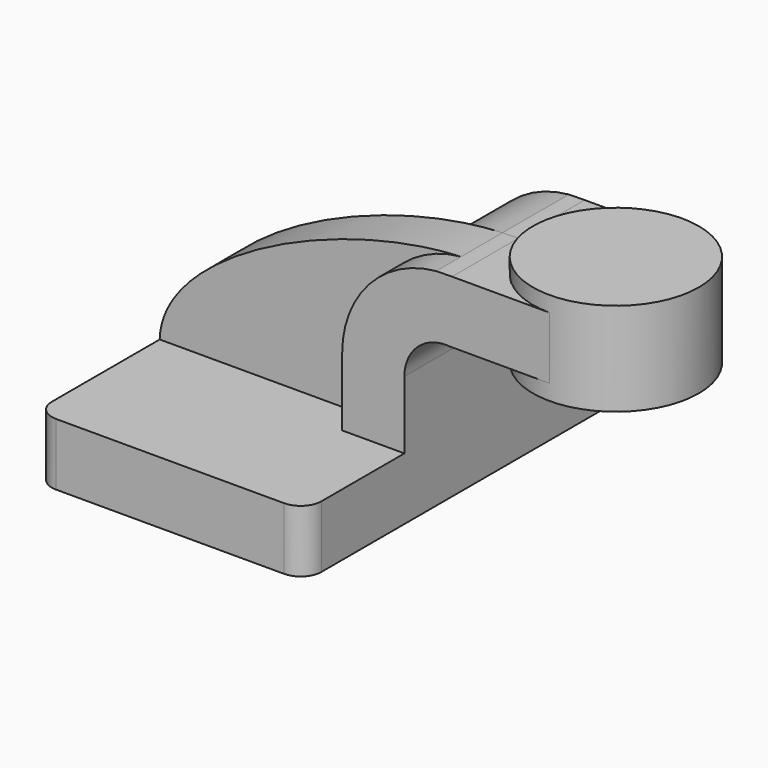
from build123d import *

# Parameters (mm, degrees)
F1_DEPTH = 63.5
F2_DEPTH = 25.4
F3_DEPTH = 15.875
F5_R     = 6.35


with BuildPart() as f1:
    # F0 (on Front) → F1 (new body, symmetric)
    with BuildSketch(Plane.XZ):
        Polygon((22.225, 9.525), (-41.275, 9.525), (-41.275, -9.525), (41.275, -9.525), (41.275, 9.525), align=None)
    extrude(amount=F1_DEPTH, both=True)

    # F0 (on Front) → F2 (join, symmetric)
    with BuildSketch(Plane.XZ):
        with BuildLine():
            Line((22.225, 30.275552), (22.225, 9.525))
            Line((22.225, 9.525), (41.275, 9.525))
            Line((41.275, 9.525), (41.275, 30.275552))
            ThreePointArc((41.275, 30.275552), (45.421853, 39.644869), (55.145303, 42.8752))
            Line((55.145303, 42.8752), (60.325, 42.8752))
            Line((60.325, 42.8752), (60.325, 61.9252))
            Line((60.325, 61.9252), (55.853148, 61.9252))
            add(Edge.make_bspline(
                [(50.991166, 61.84665), (52.640021, 61.916743), (54.262423, 61.943544), (55.853148, 61.9252)],
                knots=[105.839839, 105.839839, 105.839839, 105.839839, 110.361488, 110.361488, 110.361488, 110.361488], degree=3))
            ThreePointArc((50.991166, 61.84665), (30.495036, 51.631035), (22.225, 30.275552))
        make_face()
        Polygon((85.725, 61.9252), (60.325, 61.9252), (60.325, 42.8752), (82.916974, 42.8752), (85.725, 42.8752), align=None)
    extrude(amount=F2_DEPTH, both=True)

    # F0 (on Front) → F3 (join)
    with BuildSketch(Plane.XZ):
        with BuildLine():
            add(Edge.make_bspline(
                [(-41.275, 9.525), (-40.69288, 34.845239), (12.395848, 60.205958), (50.991166, 61.84665)],
                knots=[0, 0, 0, 0, 105.839839, 105.839839, 105.839839, 105.839839], degree=3))
            Line((-41.275, 9.525), (22.225, 9.525))
            Line((22.225, 9.525), (22.225, 30.275552))
            ThreePointArc((22.225, 30.275552), (30.495036, 51.631035), (50.991166, 61.84665))
        make_face()
    extrude(amount=F3_DEPTH)

    # F0 (on Front) → F4 (revolve)
    with BuildSketch(Plane.XZ):
        Polygon((85.725, 66.675), (85.725, 61.9252), (85.725, 42.8752), (85.725, 38.1), (111.125, 38.1), (111.125, 66.675), align=None)
    revolve(axis=Axis((85.725, 0, 52.3875), (0, 0, 1)))

    # F5
    f5_edges = [f1.edges().sort_by_distance(p)[0] for p in [
        (41.275, -63.5, 0),
        (41.275, 63.5, 0),
        (-41.275, -63.5, 0),
        (-41.275, 63.5, 0),
    ]]
    fillet(f5_edges, radius=F5_R)


solid = f1.part
